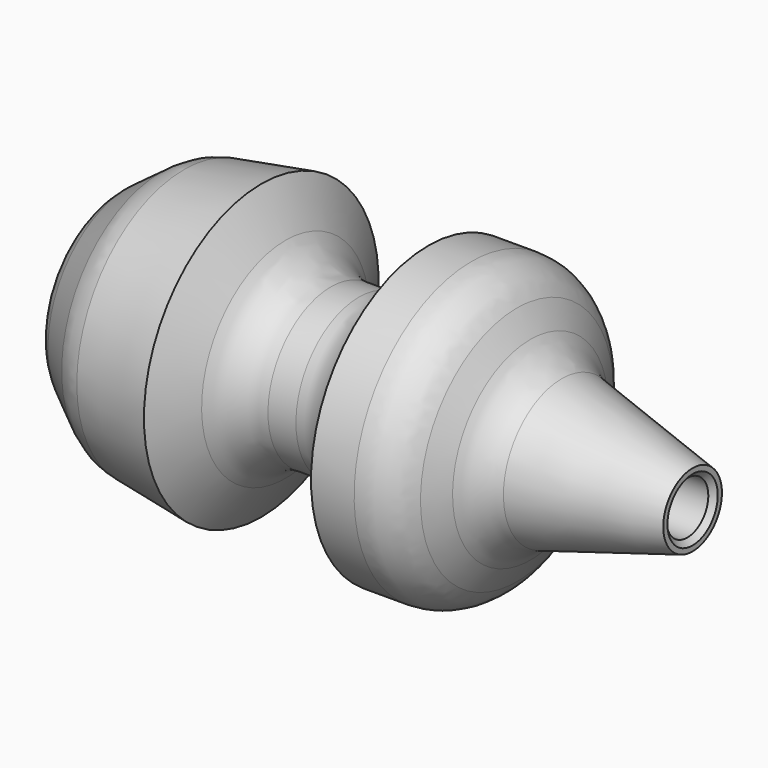
from build123d import *

# Parameters (mm, degrees)
F2_SIZE2 = 10
F2_SIZE  = 7
F3_R     = 10
F4_SIZE  = 1


with BuildPart() as f1:
    # F0 (on Front) → F1 (revolve)
    with BuildSketch(Plane.XZ):
        Polygon((-69.8987477026, 18.6077695012), (-73.5294490392, 2), (-73.5294490392, 0), (39.3949043283, 0), (39.3949043283, 2), (10.4812397387, 10), (2.9812397387, 22.9903810568), (-11.0187602613, 22.9903810568), (-18.5187602613, 10), (-35.3987477026, 10), (-42.8987477026, 22.9903810568), align=None)
    revolve(axis=Axis((-13.5878343135, 0, -5), (1, 0, 0)))

    # F2
    f2_edges = [f1.edges().sort_by_distance(p)[0] for p in [
        (-69.898748, 0, -28.60777),
    ]]
    chamfer(f2_edges, length=F2_SIZE, length2=F2_SIZE2)

    # F3
    f3_edges = [f1.edges().sort_by_distance(p)[0] for p in [
        (-35.398748, 0, -20),
        (-18.51876, 0, -20),
        (10.48124, 0, -20),
        (-60.027938, 0, -30.209983),
        (2.98124, 0, -32.990381),
        (-71.393742, 0, -21.769272),
    ]]
    fillet(f3_edges, radius=F3_R)

    # F4
    f4_edges = [f1.edges().sort_by_distance(p)[0] for p in [
        (-73.529449, 0, -10),
        (39.394904, 0, -10),
    ]]
    chamfer(f4_edges, length=F4_SIZE)


solid = f1.part
